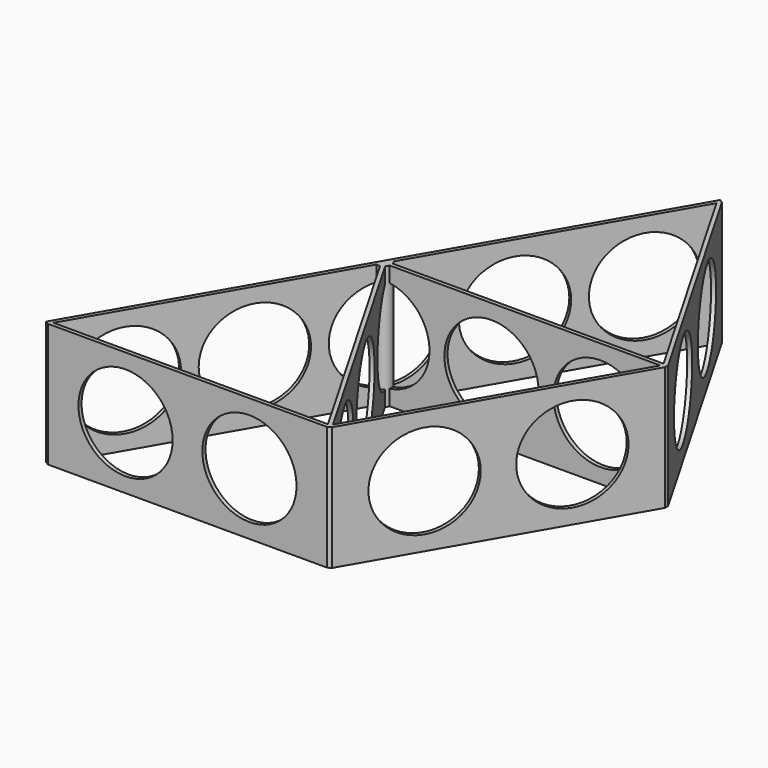
from build123d import *

# Parameters (mm, degrees)
SKETCH_R              = 9.5
PAD_DEPTH             = 0.4
POLARPATTERN_COUNT    = 6
PAD001_DEPTH          = 25
POLARPATTERN001_COUNT = 3
POLARPATTERN001_ANGLE = 120
SKETCH002_R           = 9.5
POCKET_DEPTH          = 2
POLARPATTERN002_COUNT = 6
SKETCH003_R           = 1.5
PAD002_DEPTH          = 25
POCKET001_DEPTH       = 25


with BuildPart() as part:
    # Sketch → Pad (new body, symmetric)
    with BuildSketch(Plane.XZ):
        with BuildLine():
            Line((0, 0), (57, 0))
            Line((57, 0), (57, 25))
            Line((57, 25), (0, 25))
            Line((0, 25), (0, 22))
            ThreePointArc((0, 3), (9.5, 12.5), (0, 22))
            Line((0, 3), (0, 0))
        make_face()
        with Locations((22, 12.5)):
            Circle(SKETCH_R, mode=Mode.SUBTRACT)
        with Locations((44, 12.5)):
            Circle(SKETCH_R, mode=Mode.SUBTRACT)
    pad = extrude(amount=PAD_DEPTH, both=True)

    # PolarPattern: Pad ×6 about axis
    polarpattern_axis = Axis((0, 0, 0), (0, 0, 1))
    for i in range(1, POLARPATTERN_COUNT):
        add(pad.rotate(polarpattern_axis, i * 360 / POLARPATTERN_COUNT))

    # Sketch001 (on Face61 of PolarPattern) → Pad001 (join)
    with BuildSketch(Plane(origin=(0, 0, 25), x_dir=(-1, 0, 0), z_dir=(0, 0, 1))):
        Polygon((-28.15359, 49.563448), (28.15359, 49.563448), (27.69171, 48.763448), (-27.69171, 48.763448), align=None)
    pad001 = extrude(amount=-PAD001_DEPTH)

    # PolarPattern001: Pad001 ×3 about axis
    polarpattern001_axis = Axis((0, 0, 25), (0, 0, 1))
    for i in range(1, POLARPATTERN001_COUNT):
        add(pad001.rotate(polarpattern001_axis, i * POLARPATTERN001_ANGLE / (POLARPATTERN001_COUNT - 1)))

    # Sketch002 (on Face59 of Pad001) → Pocket (cut)
    with BuildSketch(Plane.XZ.offset(49.563448)):
        with Locations((-12.5, 12.5)):
            Circle(SKETCH002_R)
        with Locations((12.5, 12.5)):
            Circle(SKETCH002_R)
    pocket = extrude(amount=-POCKET_DEPTH, mode=Mode.SUBTRACT)

    # PolarPattern002: Pocket ×6 about axis
    polarpattern002_axis = Axis((0, 0, 0), (0, 0, 1))
    for i in range(1, POLARPATTERN002_COUNT):
        add(pocket.rotate(polarpattern002_axis, i * 360 / POLARPATTERN002_COUNT), mode=Mode.SUBTRACT)

    # Sketch003 (on Face68 of PolarPattern002) → Pad002 (join)
    with BuildSketch(Plane(origin=(0, 0, 25), x_dir=(-1, 0, 0), z_dir=(0, 0, 1))):
        Circle(SKETCH003_R)
    extrude(amount=-PAD002_DEPTH)

    # Sketch004 (on Face83 of Pad002) → Pocket001 (cut)
    with BuildSketch(Plane(origin=(0, 0, 25), x_dir=(-1, 0, 0), z_dir=(0, 0, 1))):
        Polygon((28.84641, 49.163448), (-28.15359, -49.563448), (31.376045, -54.075596), (79.795143, 24.207651), align=None)
    extrude(amount=-POCKET001_DEPTH, mode=Mode.SUBTRACT)


solid = part.part
